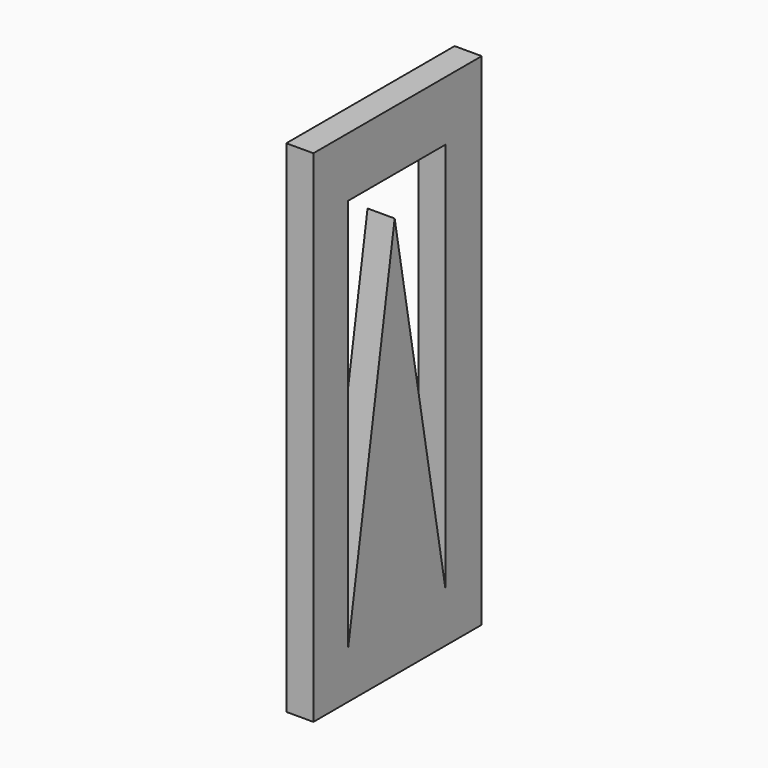
from build123d import *

# Parameters (mm, degrees)
F0_W     = 23.272715
F0_H     = 55.373015
F1_DEPTH = 3


with BuildPart() as f1:
    # F0 (on Right) → F1 (new body)
    with BuildSketch(Plane.YZ):
        with Locations((21.788079, -39.764246)):
            Rectangle(F0_W, F0_H)
        Polygon((14.966766, -62.154207), (14.966766, -18.658301), (28.448895, -18.658301), (28.448895, -62.154207), (21.386825, -22.991842), align=None, mode=Mode.SUBTRACT)
    extrude(amount=F1_DEPTH)


solid = f1.part
